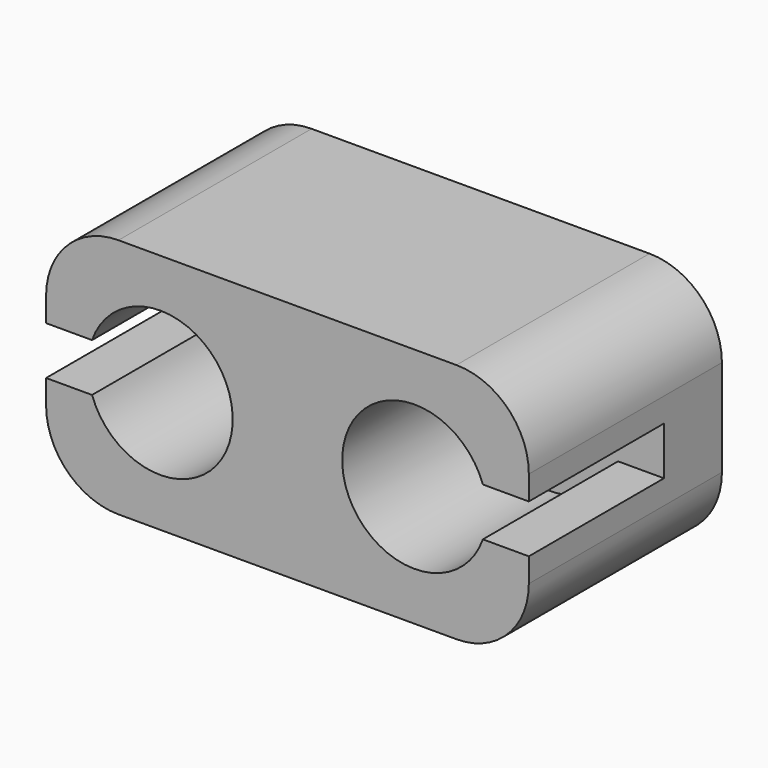
from build123d import *

# Parameters (mm, degrees)
SKETCH_W        = 20
SKETCH_H        = 10
PAD_DEPTH       = 10
POCKET_DEPTH    = 7
SKETCH002_R     = 3
POCKET001_DEPTH = 7
SKETCH003_R     = 1.5
POCKET002_DEPTH = 5
FILLET_R        = 3


with BuildPart() as part:
    # Sketch → Pad (new body)
    with BuildSketch(Plane.XY):
        Rectangle(SKETCH_W, SKETCH_H)
    extrude(amount=PAD_DEPTH)

    # Sketch001 (on Face1 of Pad) → Pocket (cut)
    with BuildSketch(Plane.XZ.offset(5)):
        with BuildLine():
            Line((-10, 4), (-10, 6))
            Line((-10, 6), (-7, 6))
            ThreePointArc((-7, 4), (-3.267949, 5), (-7, 6))
            Line((-10, 4), (-7, 4))
        make_face()
    pocket = extrude(amount=-POCKET_DEPTH, mode=Mode.SUBTRACT)

    # Sketch002 (on Face1 of Pocket) → Pocket001 (cut)
    with BuildSketch(Plane.XZ.offset(5)):
        with Locations((-5.267949, 5)):
            Circle(SKETCH002_R)
    pocket001 = extrude(amount=-POCKET001_DEPTH, mode=Mode.SUBTRACT)

    # Sketch003 (on Face9 of Pocket001) → Pocket002 (cut)
    with BuildSketch(Plane.XZ.offset(-2)):
        with Locations((-5.267949, 5)):
            Circle(SKETCH003_R)
    pocket002 = extrude(amount=-POCKET002_DEPTH, mode=Mode.SUBTRACT)

    # Mirrored: Pocket, Pocket001, Pocket002 across Sketch001 V_Axis
    add(pocket.mirror(Plane(origin=(0, -5, 0), x_dir=(0, -1, 0), z_dir=(1, 0, 0))), mode=Mode.SUBTRACT)
    add(pocket001.mirror(Plane(origin=(0, -5, 0), x_dir=(0, -1, 0), z_dir=(1, 0, 0))), mode=Mode.SUBTRACT)
    add(pocket002.mirror(Plane(origin=(0, -5, 0), x_dir=(0, -1, 0), z_dir=(1, 0, 0))), mode=Mode.SUBTRACT)

    # Fillet
    fillet_edges = [part.edges().sort_by_distance(p)[0] for p in [
        (-10, 0, 10),
        (-10, 0, 0),
        (10, 0, 10),
        (10, 0, 0),
    ]]
    fillet(fillet_edges, radius=FILLET_R)


solid = part.part
